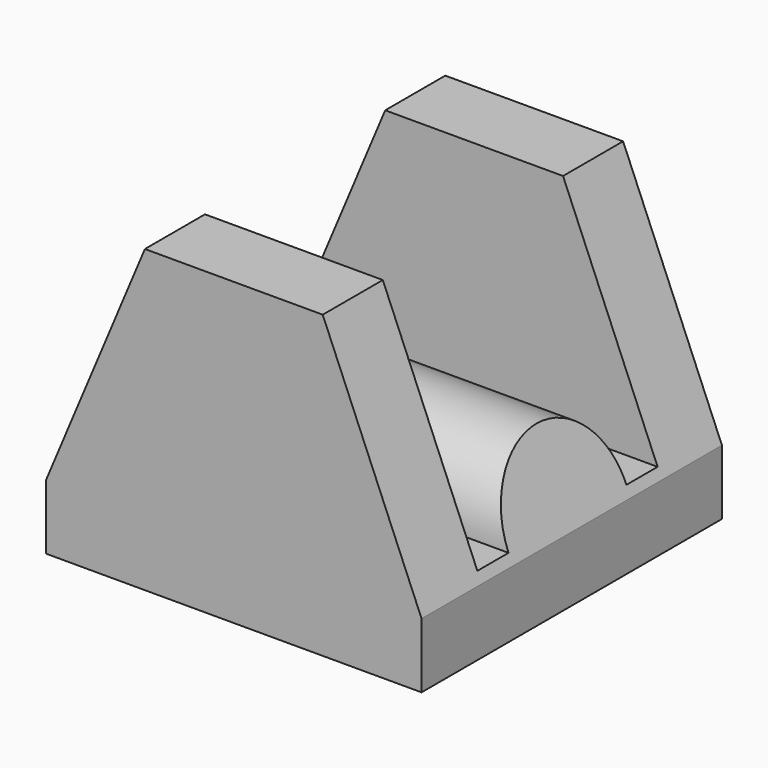
from build123d import *

# Parameters (mm, degrees)
F0_W     = 63.5
F0_H     = 63.5
F1_DEPTH = 12.7
F2_W     = 12.7
F2_H     = 38.1
F3_DEPTH = 63.5
F4_R     = 12.460297
F5_DEPTH = 63.5
F7_DEPTH = 63.5


with BuildPart() as f1:
    # F0 (on Top) → F1 (new body)
    with BuildSketch(Plane.XY):
        Rectangle(F0_W, F0_H)
    extrude(amount=F1_DEPTH)

    # F2 (on face) → F3 (join)
    with BuildSketch(Plane(origin=(-31.75, 0, 0), x_dir=(0, -1, 0), z_dir=(-1, 0, 0))):
        with Locations((-25.4, 31.75)):
            Rectangle(F2_W, F2_H)
        with Locations((25.4, 31.75)):
            Rectangle(F2_W, F2_H)
    extrude(amount=-F3_DEPTH)

    # F4 (on face) → F5 (join)
    with BuildSketch(Plane.YZ.offset(31.75)):
        with Locations((0, 12.724482)):
            Circle(F4_R)
    extrude(amount=-F5_DEPTH)

    # F6 (on face) → F7 (cut)
    with BuildSketch(Plane(origin=(0, 31.75, 0), x_dir=(-1, 0, 0), z_dir=(0, 1, 0))):
        Polygon((-31.75, 50.8), (-31.75, 10.989325), (-15.038024, 50.8), align=None)
        Polygon((15.038024, 50.8), (31.75, 10.989325), (31.75, 50.8), align=None)
    extrude(amount=-F7_DEPTH, mode=Mode.SUBTRACT)


solid = f1.part
